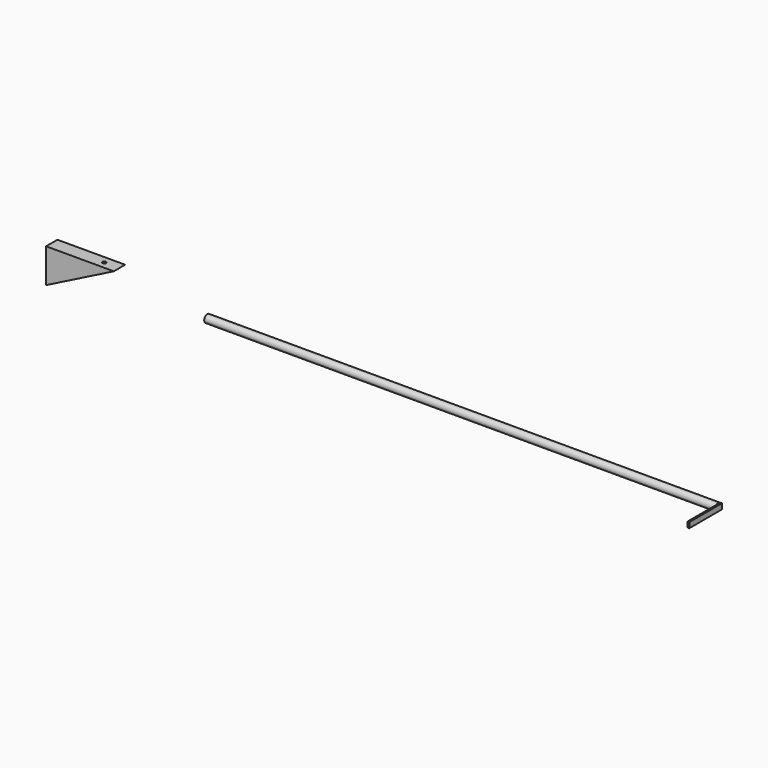
from build123d import *

# Parameters (mm, degrees)
F0_R     = 13.786244
F1_DEPTH = 1828.8
F2_R     = 10.903901
F3_DEPTH = 1673.86
F4_W     = 145.977509
F4_H     = 19.365289
F5_DEPTH = 6.35
F7_DEPTH = 50.8
F8_R     = 6.35
F9_DEPTH = 38.1


with BuildPart() as f1:
    # F0 (on Right) → F1 (new body)
    with BuildSketch(Plane.YZ):
        Circle(F0_R)
    extrude(amount=F1_DEPTH)

    # F2 (on Right) → F3 (cut)
    with BuildSketch(Plane.YZ):
        Circle(F2_R)
    extrude(amount=F3_DEPTH, mode=Mode.SUBTRACT)

    # F4 (on face) → F5 (join)
    with BuildSketch(Plane.YZ.offset(1828.8)):
        with Locations((-64.748525, 1.369918)):
            Rectangle(F4_W, F4_H)
    extrude(amount=F5_DEPTH)


with BuildPart() as f7:
    # F6 (on Front) → F7 (new body)
    with BuildSketch(Plane.XZ):
        Polygon((-293.807387, 73.670708), (-536.313117, 73.670708), (-536.313117, -48.78268), align=None)
    extrude(amount=F7_DEPTH)

    # F8 (on face) → F9 (cut)
    with BuildSketch(Plane.XY.offset(73.670708)):
        with Locations((-348.010033, -25.4)):
            Circle(F8_R)
    extrude(amount=-F9_DEPTH, mode=Mode.SUBTRACT)


solid = Compound([f1.part, f7.part])
